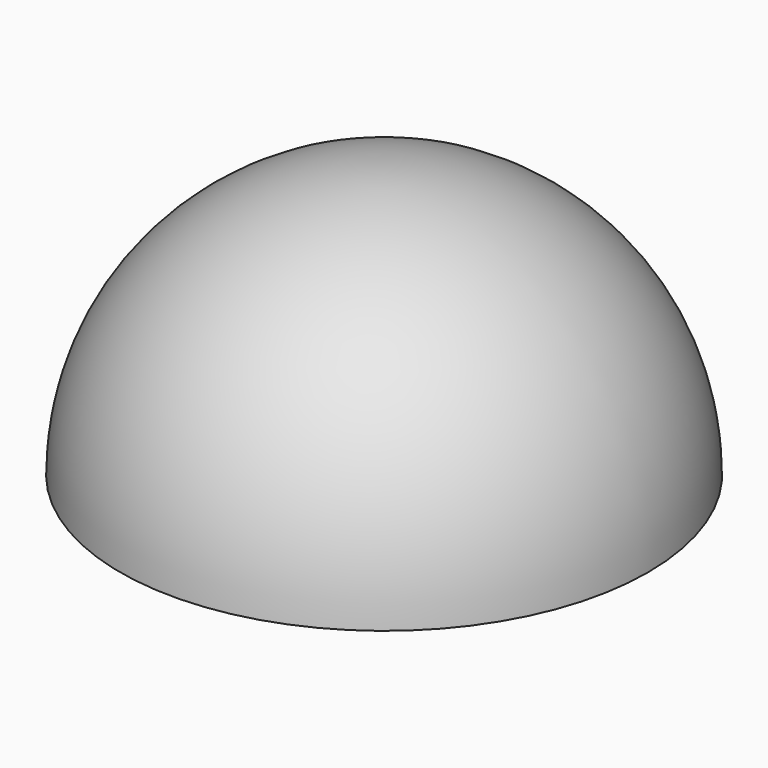
from build123d import *

# Parameters (mm, degrees)
EXTRUDE005_DEPTH = 3
EXTRUDE006_DEPTH = 3
RECTANGLE001_W   = 100
RECTANGLE001_H   = 100
EXTRUDE004_DEPTH = 50
EXTRUDE007_DEPTH = 3


with BuildPart() as extrude005:
    # Clone2D → Extrude005 (new body)
    with BuildSketch(Plane(origin=(-17, 30, 0), x_dir=(1, 0, 0), z_dir=(0, 0, 1))):
        Polygon((17.44346, -4.685924), (26.023636, -19.546554), (21.745595, -19.546554), (21.745595, -53.769589), (13.140465, -53.769589), (13.140465, -19.546554), (8.861994, -19.546554), align=None)
    extrude(amount=-EXTRUDE005_DEPTH)


with BuildPart() as extrude006:
    # Clone2D001 → Extrude006 (new body)
    with BuildSketch(Plane(origin=(-45, 30, 0), x_dir=(1, 0, 0), z_dir=(0, 0, 1))):
        Polygon((17.44346, -4.685924), (26.023636, -19.546554), (21.745595, -19.546554), (21.745595, -53.769589), (13.140465, -53.769589), (13.140465, -19.546554), (8.861994, -19.546554), align=None)
    extrude(amount=-EXTRUDE006_DEPTH)


with BuildPart() as extrude004:
    # Rectangle001 → Extrude004 (new body)
    with BuildSketch(Plane(origin=(-50, 50, 0), x_dir=(1, 0, 0), z_dir=(0, 0, 1))):
        with Locations((50, -50)):
            Rectangle(RECTANGLE001_W, RECTANGLE001_H)
    extrude(amount=-EXTRUDE004_DEPTH)


with BuildPart() as cut001:
    # Sphere001 → Sphere001 (revolve)
    with BuildSketch(Plane.XZ):
        with BuildLine():
            ThreePointArc((0, -50), (50, 0), (0, 50))
            Line((0, 50), (0, -50))
        make_face()
    revolve(axis=Axis((0, 0, 0), (0, 0, 1)))

    # Cut001: cut Extrude004
    add(extrude004.part, mode=Mode.SUBTRACT)


with BuildPart() as obj1:
    # Clone2D002 → Extrude007 (new body)
    with BuildSketch(Plane(origin=(11, 30, 0), x_dir=(1, 0, 0), z_dir=(0, 0, 1))):
        Polygon((17.44346, -4.685924), (26.023636, -19.546554), (21.745595, -19.546554), (21.745595, -53.769589), (13.140465, -53.769589), (13.140465, -19.546554), (8.861994, -19.546554), align=None)
    extrude(amount=-EXTRUDE007_DEPTH)

    # Fusion003: union Extrude005, Extrude006, Cut001
    add(extrude005.part)
    add(extrude006.part)
    add(cut001.part)


solid = obj1.part
